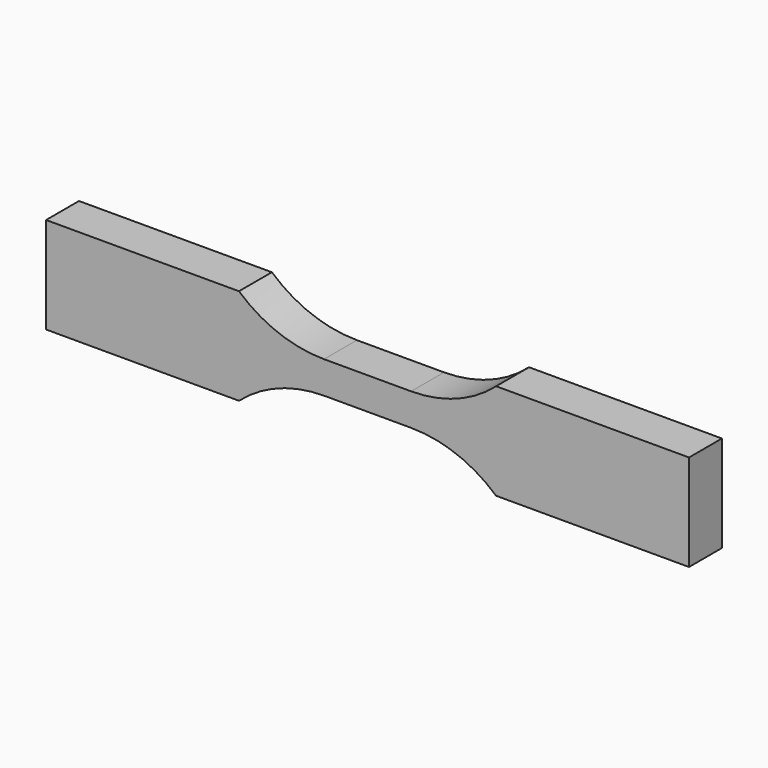
from build123d import *

# Parameters (mm, degrees)
F1_DEPTH = 4.064


with BuildPart() as f1:
    # F0 (on Front) → F1 (new body)
    with BuildSketch(Plane.XZ):
        with BuildLine():
            Line((4.29974, 1.5875), (0, 1.5875))
            Line((0, 1.5875), (-4.29974, 1.5875))
            ThreePointArc((-4.29974, 1.5875), (-8.789868, 2.407738), (-12.7, 4.7625))
            Line((-12.7, 4.7625), (-31.75, 4.7625))
            Line((-31.75, 4.7625), (-31.75, 0))
            Line((-31.75, 0), (-31.75, -4.7625))
            Line((-31.75, -4.7625), (-12.7, -4.7625))
            ThreePointArc((-12.7, -4.7625), (-8.789868, -2.407738), (-4.29974, -1.5875))
            Line((-4.29974, -1.5875), (0, -1.5875))
            Line((0, -1.5875), (4.29974, -1.5875))
            ThreePointArc((4.29974, -1.5875), (8.789868, -2.407738), (12.7, -4.7625))
            Line((12.7, -4.7625), (31.75, -4.7625))
            Line((31.75, -4.7625), (31.75, 0))
            Line((31.75, 0), (31.75, 4.7625))
            Line((31.75, 4.7625), (12.7, 4.7625))
            ThreePointArc((12.7, 4.7625), (8.789868, 2.407738), (4.29974, 1.5875))
        make_face()
    extrude(amount=F1_DEPTH)


solid = f1.part
